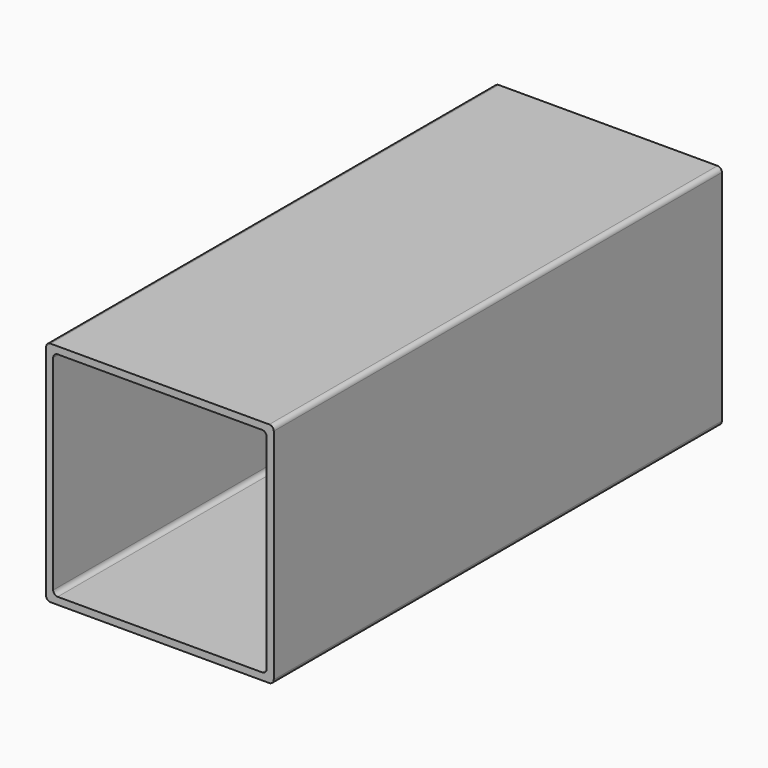
from build123d import *

# Parameters (mm, degrees)
F1_DEPTH = 125


with BuildPart() as f1:
    # F0 (on Front) → F1 (new body, symmetric)
    with BuildSketch(Plane.XZ):
        with BuildLine():
            ThreePointArc((50.8, 48.8), (50.214214, 50.214214), (48.8, 50.8))
            Line((48.8, 50.8), (-48.8, 50.8))
            ThreePointArc((-48.8, 50.8), (-50.214214, 50.214214), (-50.8, 48.8))
            Line((-50.8, 48.8), (-50.8, -48.8))
            ThreePointArc((-50.8, -48.8), (-50.214214, -50.214214), (-48.8, -50.8))
            Line((-48.8, -50.8), (48.8, -50.8))
            ThreePointArc((48.8, -50.8), (50.214214, -50.214214), (50.8, -48.8))
            Line((50.8, -48.8), (50.8, 48.8))
        make_face()
        with BuildLine():
            Line((-47.625, -45.625), (-47.625, 45.625))
            ThreePointArc((-47.625, 45.625), (-47.039214, 47.039214), (-45.625, 47.625))
            Line((-45.625, 47.625), (45.625, 47.625))
            ThreePointArc((45.625, 47.625), (47.039214, 47.039214), (47.625, 45.625))
            Line((47.625, 45.625), (47.625, -45.625))
            ThreePointArc((47.625, -45.625), (47.039214, -47.039214), (45.625, -47.625))
            Line((45.625, -47.625), (-45.625, -47.625))
            ThreePointArc((-45.625, -47.625), (-47.039214, -47.039214), (-47.625, -45.625))
        make_face(mode=Mode.SUBTRACT)
    extrude(amount=F1_DEPTH, both=True)


solid = f1.part
